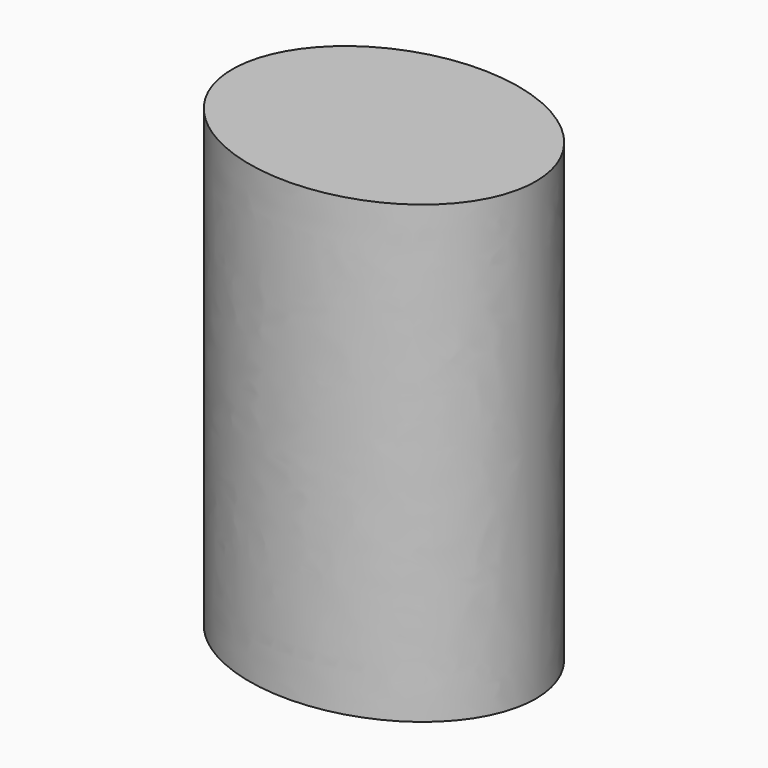
from build123d import *

# Parameters (mm, degrees)
F1_DEPTH = 75
F2_R     = 7.5
F3_DEPTH = 50


with BuildPart() as f1:
    # F0 (on Top) → F1 (new body)
    with BuildSketch(Plane.XY):
        with BuildLine():
            add(Edge.make_bspline(
                [(25, 0), (25, 34.641016), (-12.5, 17.320508), (-50, 0), (-12.5, -17.320508), (25, -34.641016), (25, 0)],
                knots=[0, 0, 0, 2.094395, 2.094395, 4.18879, 4.18879, 6.283185, 6.283185, 6.283185], degree=2, weights=[1, 0.5, 1, 0.5, 1, 0.5, 1]))
        make_face()
    extrude(amount=F1_DEPTH)

    # F2 (on face) → F3 (cut)
    with BuildSketch(Plane(origin=(0, 0, 0), x_dir=(1, 0, 0), z_dir=(0, 0, -1))):
        Circle(F2_R)
    extrude(amount=-F3_DEPTH, mode=Mode.SUBTRACT)


solid = f1.part
